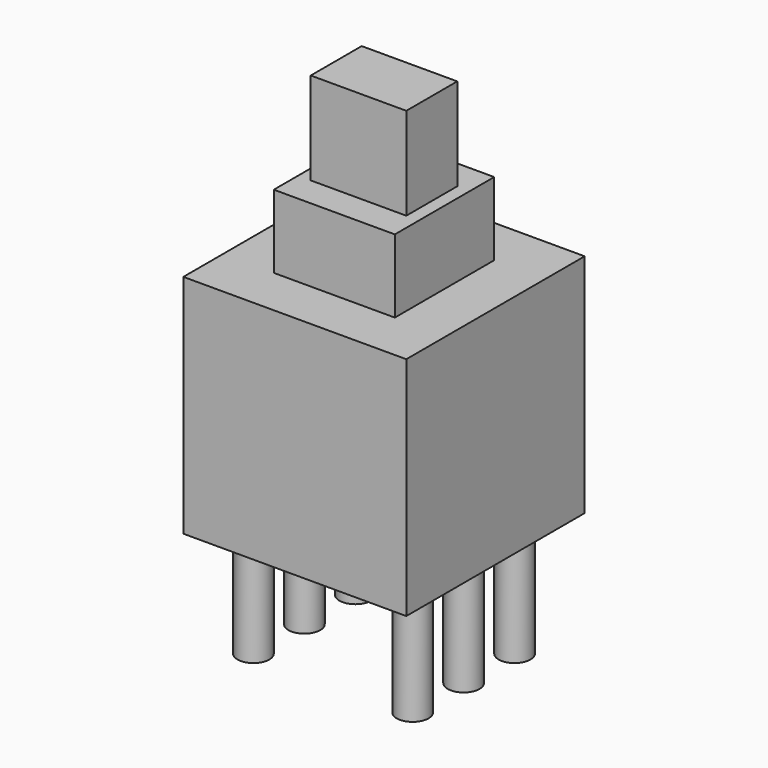
from build123d import *

# Parameters (mm, degrees)
SKETCH069_W             = 7
SKETCH069_H             = 7
PAD039_DEPTH            = 7.1
SKETCH070_R             = 0.5
PAD040_DEPTH            = 3.6
SKETCH071_W             = 3.9
SKETCH071_H             = 3.8
PAD041_DEPTH            = 9.4
SKETCH072_W             = 2
SKETCH072_H             = 3
PAD042_DEPTH            = 12.3
BODY086_PLACEMENT_ANGLE = 90


with BuildPart() as part:
    # Sketch069 → Pad039 (new body)
    with BuildSketch(Plane.XY):
        Rectangle(SKETCH069_W, SKETCH069_H)
    extrude(amount=PAD039_DEPTH)

    # Sketch070 → Pad040 (join)
    with BuildSketch(Plane.XY):
        with Locations((0, 2.5)):
            Circle(SKETCH070_R)
        with Locations((0, -2.5)):
            Circle(SKETCH070_R)
        with Locations((2, 2.5)):
            Circle(SKETCH070_R)
        with Locations((-2, 2.5)):
            Circle(SKETCH070_R)
        with Locations((-2, -2.5)):
            Circle(SKETCH070_R)
        with Locations((2, -2.5)):
            Circle(SKETCH070_R)
    extrude(amount=-PAD040_DEPTH)

    # Sketch071 → Pad041 (join)
    with BuildSketch(Plane.XY):
        Rectangle(SKETCH071_W, SKETCH071_H)
    extrude(amount=PAD041_DEPTH)

    # Sketch072 → Pad042 (join)
    with BuildSketch(Plane.XY):
        Rectangle(SKETCH072_W, SKETCH072_H)
    extrude(amount=PAD042_DEPTH)


with BuildPart() as part_1:
    # Body086 placement: moved
    add(part.part.moved(Location((15, 0, -9.5))).rotate(Axis((15, 0, -9.5), (0, 0, 1)), BODY086_PLACEMENT_ANGLE))


with BuildPart() as part_2:
    # Body087 placement: moved
    add(part_1.part.moved(Location((-30, 0, 0))))


solid = part_2.part
